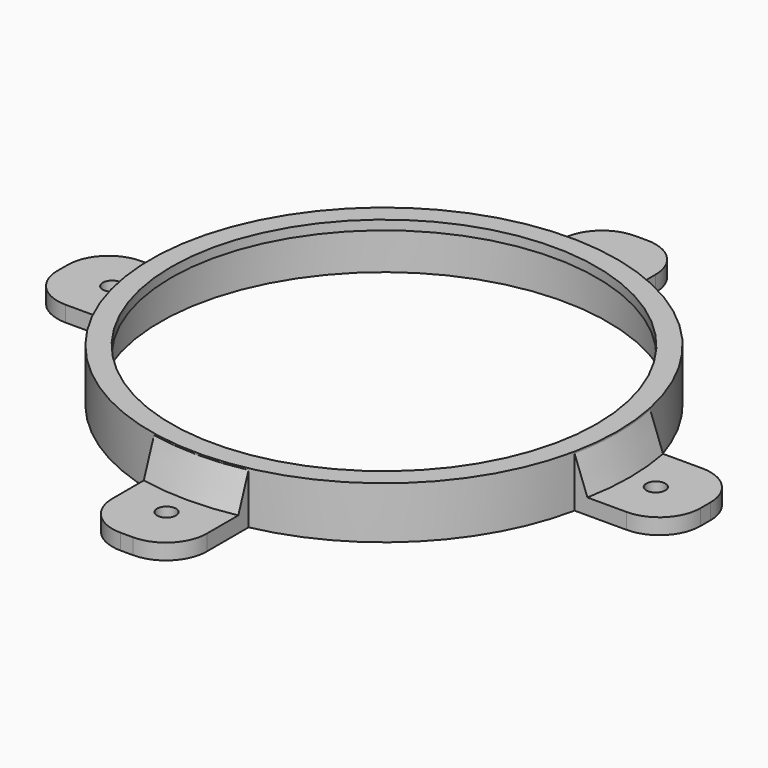
from build123d import *

# Parameters (mm, degrees)
SKETCH_R      = 74
SKETCH_R_2    = 71
PAD_DEPTH     = 13.5
SKETCH001_R   = 74
SKETCH001_R_2 = 67.5
PAD001_DEPTH  = 3
SKETCH002_W   = 30
SKETCH002_H   = 30
PAD002_DEPTH  = 5
SKETCH003_R   = 3
POCKET_DEPTH  = 5
CHAMFER_SIZE2 = 4
CHAMFER_SIZE  = 11
FILLET_R      = 13


with BuildPart() as part:
    # Sketch → Pad (new body)
    with BuildSketch(Plane.XY):
        Circle(SKETCH_R)
        Circle(SKETCH_R_2, mode=Mode.SUBTRACT)
    extrude(amount=PAD_DEPTH)

    # Sketch001 (on Face4 of Pad) → Pad001 (join)
    with BuildSketch(Plane.XY.offset(13.5)):
        Circle(SKETCH001_R)
        Circle(SKETCH001_R_2, mode=Mode.SUBTRACT)
    extrude(amount=PAD001_DEPTH)

    # Sketch002 (on Face1 of Pad001) → Pad002 (join)
    with BuildSketch(Plane(origin=(0, 0, 0), x_dir=(1, 0, 0), z_dir=(0, 0, -1))):
        with Locations((87, 0)):
            Rectangle(SKETCH002_W, SKETCH002_H)
        with Locations((0, 87)):
            Rectangle(SKETCH002_W, SKETCH002_H)
        with Locations((-87, 0)):
            Rectangle(SKETCH002_W, SKETCH002_H)
        with Locations((0, -87)):
            Rectangle(SKETCH002_W, SKETCH002_H)
    extrude(amount=-PAD002_DEPTH)

    # Sketch003 (on Face10 of Pad002) → Pocket (cut)
    with BuildSketch(Plane.XY.offset(5)):
        with Locations((86.25, 0)):
            Circle(SKETCH003_R)
        with Locations((0, 86.25)):
            Circle(SKETCH003_R)
        with Locations((-86.25, 0)):
            Circle(SKETCH003_R)
        with Locations((0, -86.25)):
            Circle(SKETCH003_R)
    extrude(amount=-POCKET_DEPTH, mode=Mode.SUBTRACT)

    # Chamfer
    chamfer_edges = [part.edges().sort_by_distance(p)[0] for p in [
        (0, 74, 5),
        (73.614944, 7.53923, 5),
        (0, -74, 5),
        (-74, 0, 5),
    ]]
    chamfer_side = part.faces().sort_by_distance((-74, 0, 8.25))[0]
    chamfer(chamfer_edges, length=CHAMFER_SIZE, length2=CHAMFER_SIZE2, reference=chamfer_side)

    # Fillet
    fillet_edges = [part.edges().sort_by_distance(p)[0] for p in [
        (15, 102, 2.5),
        (-15, 102, 2.5),
        (102, 15, 2.5),
        (102, -15, 2.5),
        (15, -102, 2.5),
        (-15, -102, 2.5),
        (-102, -15, 2.5),
        (-102, 15, 2.5),
    ]]
    fillet(fillet_edges, radius=FILLET_R)


solid = part.part
